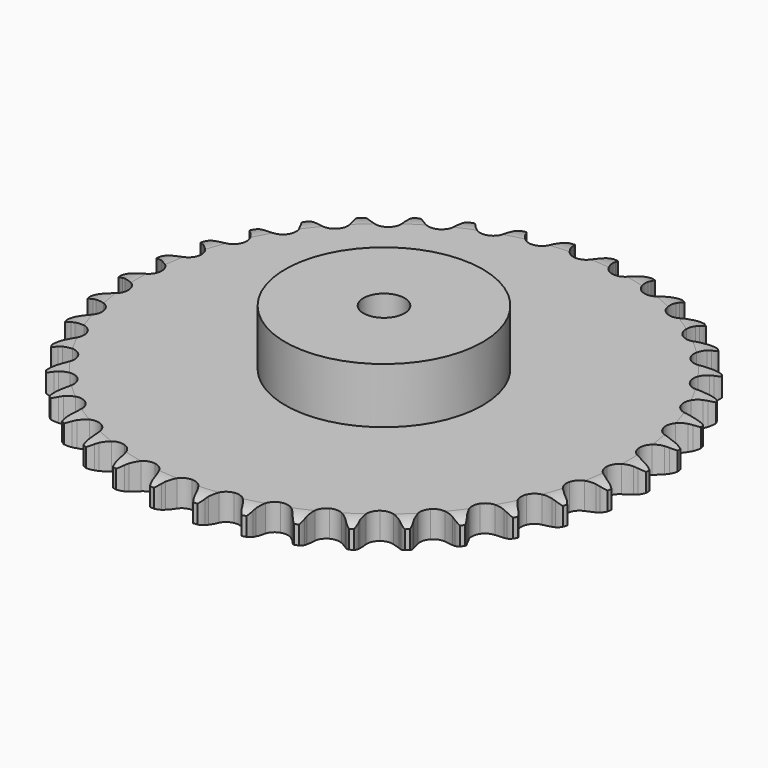
from build123d import *

# Parameters (mm, degrees)
PAD_DEPTH         = 16.2
SKETCH001_R       = 60
PAD001_DEPTH      = 50
SKETCH002_R       = 12.5
POCKET_DEPTH      = 0.0010001
POCKET_DEPTH_BACK = 50.001


with BuildPart() as part:
    # Sprocket → Pad (new body)
    with BuildSketch(Plane.XY):
        with BuildLine():
            ThreePointArc((-13.3743800362, 161.4047637629), (-11.4083954717, 159.0894894173), (-10.0382676821, 156.3787071604))
            Line((-10.0382676821, 156.3787071604), (-9.2638283543, 154.2570187456))
            ThreePointArc((-9.2638283543, 154.2570187456), (-8.040592009, 151.5331871163), (-6.4385860217, 149.0134365895))
            ThreePointArc((-6.4385860217, 149.0134365895), (-3.6038657612, 146.629271795), (0, 145.7736829351))
            ThreePointArc((0, 145.7736829351), (3.6038657612, 146.629271795), (6.4385860217, 149.0134365895))
            ThreePointArc((6.4385860217, 149.0134365895), (8.040592009, 151.5331871163), (9.2638283543, 154.2570187456))
            Line((9.2638283543, 154.2570187456), (10.0382676821, 156.3787071604))
            ThreePointArc((10.0382676821, 156.3787071604), (11.4083954717, 159.0894894173), (13.3743800362, 161.4047637629))
            ThreePointArc((13.3743800362, 161.4047637629), (14.9324695014, 158.7974763177), (15.8377304389, 155.8981499754))
            Line((15.8377304389, 155.8981499754), (16.2523889883, 153.6779301013))
            ThreePointArc((16.2523889883, 153.6779301013), (17.0106140332, 150.7899099002), (18.1760334413, 148.0408439672))
            ThreePointArc((18.1760334413, 148.0408439672), (20.5796711847, 145.2226164531), (23.9935596164, 143.7855199017))
            ThreePointArc((23.9935596164, 143.7855199017), (27.6890986438, 144.0362628363), (30.8775776422, 145.9213311107))
            Line((30.8775776422, 145.9213311107), (34.5273526084, 150.6283780365))
            ThreePointArc((34.5273526084, 150.6283780365), (35.0571042163, 151.626196206), (35.6404480285, 152.5936608629))
            ThreePointArc((35.6404480285, 152.5936608629), (37.4380691558, 155.0419559609), (39.7583218856, 157.0020625583))
            ThreePointArc((39.7583218856, 157.0020625583), (40.8660156326, 154.1738820183), (41.2817165593, 151.1650976553))
            Line((41.2817165593, 151.1650976553), (41.3252835261, 148.9069081323))
            ThreePointArc((41.3252835261, 148.9069081323), (41.597814868, 145.9334770219), (42.2948580935, 143.0300830351))
            ThreePointArc((42.2948580935, 143.0300830351), (44.201848348, 139.8546667015), (47.332637473, 137.8752627062))
            ThreePointArc((47.332637473, 137.8752627062), (51.0190450955, 137.514320102), (54.4743094365, 138.8488721077))
            Line((54.4743094365, 138.8488721077), (58.8490606894, 142.8909878334))
            ThreePointArc((58.8490606894, 142.8909878334), (59.5358226487, 143.7880028148), (60.2704498605, 144.6462572791))
            ThreePointArc((60.2704498605, 144.6462572791), (62.4465299071, 146.7652821101), (65.0577603562, 148.3167543609))
            ThreePointArc((65.0577603562, 148.3167543609), (65.684843387, 145.3448261188), (65.5996450655, 142.3086555291))
            Line((65.5996450655, 142.3086555291), (65.2709320563, 140.0740938809))
            ThreePointArc((65.2709320563, 140.0740938809), (65.0503357505, 137.0963593106), (65.2599892713, 134.1178342894))
            ThreePointArc((65.2599892713, 134.1178342894), (66.6183143139, 130.6718462162), (69.3806043664, 128.2041277581))
            ThreePointArc((69.3806043664, 128.2041277581), (72.9573249937, 127.2413451883), (76.5851240733, 127.9889778256))
            Line((76.5851240733, 127.9889778256), (81.5655198029, 131.2559039713))
            ThreePointArc((81.5655198029, 131.2559039713), (82.3905590375, 132.0276475342), (83.2564309335, 132.7532808613))
            ThreePointArc((83.2564309335, 132.7532808613), (85.7516121085, 134.4852339518), (88.5825927172, 135.5857517375))
            ThreePointArc((88.5825927172, 135.5857517375), (88.7119598415, 132.5511422484), (88.1281862598, 129.5704042511))
            Line((88.1281862598, 129.5704042511), (87.4361597086, 127.4204234942))
            ThreePointArc((87.4361597086, 127.4204234942), (86.7284530474, 124.5196103009), (86.4449980619, 121.5472006434))
            ThreePointArc((86.4449980619, 121.5472006434), (87.2176063263, 117.9246384021), (89.5360492343, 115.035918408))
            ThreePointArc((89.5360492343, 115.035918408), (92.9055192516, 113.4975580714), (96.6068961678, 113.6378778708))
            Line((96.6068961678, 113.6378778708), (102.0570841616, 116.0405012074))
            ThreePointArc((102.0570841616, 116.0405012074), (102.997895752, 116.6659221993), (103.971393604, 117.2391410036))
            ThreePointArc((103.971393604, 117.2391410036), (106.7176138693, 118.5367791883), (109.6911228665, 119.1563232523))
            ThreePointArc((109.6911228665, 119.1563232523), (109.3192452863, 116.1418087526), (108.2528202659, 113.2978101099))
            Line((108.2528202659, 113.2978101099), (107.2163568532, 111.2910561149))
            ThreePointArc((107.2163568532, 111.2910561149), (106.0408442293, 108.5462909206), (105.2720126506, 105.6610762138))
            ThreePointArc((105.2720126506, 105.6610762138), (105.4378293975, 101.9607538591), (107.2491840822, 98.72982908))
            ThreePointArc((107.2491840822, 98.72982908), (110.3194931309, 96.6578534363), (113.9934839703, 96.1870328396))
            Line((113.9934839703, 96.1870328396), (119.7647973073, 97.6598160656))
            ThreePointArc((119.7647973073, 97.6598160656), (120.7957183658, 98.1218546321), (121.8502876902, 98.5270229989))
            ThreePointArc((121.8502876902, 98.5270229989), (124.7726373158, 99.3549500907), (127.8075651274, 99.4766208862))
            ThreePointArc((127.8075651274, 99.4766208862), (126.9445866937, 96.564429473), (125.4245995293, 93.9347470543))
            Line((125.4245995293, 93.9347470543), (124.0719712749, 92.1259588389))
            ThreePointArc((124.0719712749, 92.1259588389), (122.4607176085, 89.612111683), (121.2274811579, 86.8927930629))
            ThreePointArc((121.2274811579, 86.8927930629), (120.7819833386, 83.2156457426), (122.0368407661, 79.7306473841))
            ThreePointArc((122.0368407661, 79.7306473841), (124.7242388191, 77.1815745277), (128.2706266889, 76.1124562933))
            Line((128.2706266889, 76.1124562933), (134.205638986, 76.6152257217))
            ThreePointArc((134.205638986, 76.6152257217), (135.2985486735, 76.9012786551), (136.4054235682, 77.1273446477))
            ThreePointArc((136.4054235682, 77.1273446477), (139.4241884744, 77.4629769538), (142.437750181, 77.0834556185))
            ThreePointArc((142.437750181, 77.0834556185), (141.1072106959, 74.3530242822), (139.175122675, 72.0093889686))
            Line((139.175122675, 72.0093889686), (137.5432257518, 70.4479055603))
            ThreePointArc((137.5432257518, 70.4479055603), (135.5401818427, 68.2335476401), (133.8761799957, 65.7543010299))
            ThreePointArc((133.8761799957, 65.7543010299), (132.8315196294, 62.2006317373), (133.4956505602, 58.5566214698))
            ThreePointArc((133.4956505602, 58.5566214698), (135.7268324041, 55.5999834633), (139.048881088, 53.9617303497))
            Line((139.048881088, 53.9617303497), (144.9857006812, 53.4807717411))
            ThreePointArc((144.9857006812, 53.4807717411), (146.1107872704, 53.5830362631), (147.2397750737, 53.6238333904))
            ThreePointArc((147.2397750737, 53.6238333904), (150.2726112231, 53.4580157364), (153.1826047173, 52.5876546231))
            ThreePointArc((153.1826047173, 52.5876546231), (151.4207978294, 50.1134624128), (149.1293112766, 48.1198024663))
            Line((149.1293112766, 48.1198024663), (147.2626595786, 46.8482170619))
            ThreePointArc((147.2626595786, 46.8482170619), (144.922463243, 44.9937502891), (142.8730856323, 42.8222030734))
            ThreePointArc((142.8730856323, 42.8222030734), (141.2577583306, 39.4889466431), (141.3130470042, 35.7853235676))
            ThreePointArc((141.3130470042, 35.7853235676), (143.0271518146, 32.5017697883), (146.0342444844, 30.33906907))
            Line((146.0342444844, 30.33906907), (151.8109304113, 28.8875017214))
            ThreePointArc((151.8109304113, 28.8875017214), (152.9375044729, 28.8031883224), (154.0578093405, 28.6576037451))
            ThreePointArc((154.0578093405, 28.6576037451), (157.0219888691, 27.9948592044), (159.749037114, 26.6573994953))
            ThreePointArc((159.749037114, 26.6573994953), (157.6040203226, 24.5069359248), (155.0156410176, 22.9176331918))
            Line((155.0156410176, 22.9176331918), (152.9651519372, 21.9706313263))
            ThreePointArc((152.9651519372, 21.9706313263), (150.3516376307, 20.5266407202), (147.9727859353, 18.7220270463))
            ThreePointArc((147.9727859353, 18.7220270463), (145.8308536161, 15.7001060245), (145.2757919016, 12.0378953239))
            ThreePointArc((145.2757919016, 12.0378953239), (146.4260633675, 8.5169925594), (149.0361743742, 5.888837074))
            Line((149.0361743742, 5.888837074), (154.4951537013, 3.5062559587))
            ThreePointArc((154.4951537013, 3.5062559587), (155.5924852318, 3.2376644886), (156.6735481674, 2.9096693745))
            ThreePointArc((156.6735481674, 2.9096693745), (159.4882159845, 1.7680758905), (161.957932213, 0))
            ThreePointArc((161.957932213, 0), (159.4882159845, -1.7680758905), (156.6735481674, -2.9096693745))
            Line((156.6735481674, -2.9096693745), (154.4951537013, -3.5062559587))
            ThreePointArc((154.4951537013, -3.5062559587), (151.6796112813, -4.5003820986), (149.0361743742, -5.888837074))
            ThreePointArc((149.0361743742, -5.888837074), (146.4260633675, -8.5169925594), (145.2757919016, -12.0378953239))
            ThreePointArc((145.2757919016, -12.0378953239), (145.8308536161, -15.7001060245), (147.9727859353, -18.7220270463))
            Line((147.9727859353, -18.7220270463), (152.9651519372, -21.9706313263))
            ThreePointArc((152.9651519372, -21.9706313263), (154.0033085928, -22.4161743926), (155.0156410176, -22.9176331918))
            ThreePointArc((155.0156410176, -22.9176331918), (157.6040203226, -24.5069359248), (159.749037114, -26.6573994953))
            ThreePointArc((159.749037114, -26.6573994953), (157.0219888691, -27.9948592044), (154.0578093405, -28.6576037451))
            Line((154.0578093405, -28.6576037451), (151.8109304113, -28.8875017214))
            ThreePointArc((151.8109304113, -28.8875017214), (148.8701605354, -29.4046462254), (146.0342444844, -30.33906907))
            ThreePointArc((146.0342444844, -30.33906907), (143.0271518146, -32.5017697883), (141.3130470042, -35.7853235676))
            ThreePointArc((141.3130470042, -35.7853235676), (141.2577583306, -39.4889466431), (142.8730856323, -42.8222030734))
            Line((142.8730856323, -42.8222030734), (147.2626595786, -46.8482170619))
            ThreePointArc((147.2626595786, -46.8482170619), (148.2133231522, -47.4585584709), (149.1293112766, -48.1198024663))
            ThreePointArc((149.1293112766, -48.1198024663), (151.4207978294, -50.1134624128), (153.1826047173, -52.5876546231))
            ThreePointArc((153.1826047173, -52.5876546231), (150.2726112231, -53.4580157364), (147.2397750737, -53.6238333904))
            Line((147.2397750737, -53.6238333904), (144.9857006812, -53.4807717411))
            ThreePointArc((144.9857006812, -53.4807717411), (141.9999198857, -53.5068282554), (139.048881088, -53.9617303497))
            ThreePointArc((139.048881088, -53.9617303497), (135.7268324041, -55.5999834633), (133.4956505602, -58.5566214698))
            ThreePointArc((133.4956505602, -58.5566214698), (132.8315196294, -62.2006317373), (133.8761799957, -65.7543010299))
            Line((133.8761799957, -65.7543010299), (137.5432257518, -70.4479055603))
            ThreePointArc((137.5432257518, -70.4479055603), (138.3804646192, -71.2063967893), (139.175122675, -72.0093889686))
            ThreePointArc((139.175122675, -72.0093889686), (141.1072106959, -74.3530242822), (142.437750181, -77.0834556185))
            ThreePointArc((142.437750181, -77.0834556185), (139.4241884744, -77.4629769538), (136.4054235682, -77.1273446477))
            Line((136.4054235682, -77.1273446477), (134.205638986, -76.6152257217))
            ThreePointArc((134.205638986, -76.6152257217), (131.2562915876, -76.1494834924), (128.2706266889, -76.1124562933))
            ThreePointArc((128.2706266889, -76.1124562933), (124.7242388191, -77.1815745277), (122.0368407661, -79.7306473841))
            ThreePointArc((122.0368407661, -79.7306473841), (120.7819833386, -83.2156457426), (121.2274811579, -86.8927930629))
            Line((121.2274811579, -86.8927930629), (124.0719712749, -92.1259588389))
            ThreePointArc((124.0719712749, -92.1259588389), (124.7729477423, -93.0119102246), (125.4245995293, -93.9347470543))
            ThreePointArc((125.4245995293, -93.9347470543), (126.9445866937, -96.564429473), (127.8075651274, -99.4766208862))
            ThreePointArc((127.8075651274, -99.4766208862), (124.7726373158, -99.3549500907), (121.8502876902, -98.5270229989))
            Line((121.8502876902, -98.5270229989), (119.7647973073, -97.6598160656))
            ThreePointArc((119.7647973073, -97.6598160656), (116.9323338146, -96.7149793266), (113.9934839703, -96.1870328396))
            ThreePointArc((113.9934839703, -96.1870328396), (110.3194931309, -96.6578534363), (107.2491840822, -98.72982908))
            ThreePointArc((107.2491840822, -98.72982908), (105.4378293975, -101.9607538591), (105.2720126506, -105.6610762138))
            Line((105.2720126506, -105.6610762138), (107.2163568532, -111.2910561149))
            ThreePointArc((107.2163568532, -111.2910561149), (107.7619501099, -112.2803012129), (108.2528202659, -113.2978101099))
            ThreePointArc((108.2528202659, -113.2978101099), (109.3192452863, -116.1418087526), (109.6911228665, -119.1563232523))
            ThreePointArc((109.6911228665, -119.1563232523), (106.7176138693, -118.5367791883), (103.971393604, -117.2391410036))
            Line((103.971393604, -117.2391410036), (102.0570841616, -116.0405012074))
            ThreePointArc((102.0570841616, -116.0405012074), (99.4187667951, -114.642342642), (96.6068961678, -113.6378778708))
            ThreePointArc((96.6068961678, -113.6378778708), (92.9055192516, -113.4975580714), (89.5360492343, -115.035918408))
            ThreePointArc((89.5360492343, -115.035918408), (87.2176063263, -117.9246384021), (86.4449980619, -121.5472006434))
            Line((86.4449980619, -121.5472006434), (87.4361597086, -127.4204234942))
            ThreePointArc((87.4361597086, -127.4204234942), (87.8114873929, -128.485978277), (88.1281862598, -129.5704042511))
            ThreePointArc((88.1281862598, -129.5704042511), (88.7119598415, -132.5511422484), (88.5825927172, -135.5857517375))
            ThreePointArc((88.5825927172, -135.5857517375), (85.7516121085, -134.4852339518), (83.2564309335, -132.7532808613))
            Line((83.2564309335, -132.7532808613), (81.5655198029, -131.2559039713))
            ThreePointArc((81.5655198029, -131.2559039713), (79.1933149827, -129.4425617003), (76.5851240733, -127.9889778256))
            ThreePointArc((76.5851240733, -127.9889778256), (72.9573249937, -127.2413451883), (69.3806043664, -128.2041277581))
            ThreePointArc((69.3806043664, -128.2041277581), (66.6183143139, -130.6718462162), (65.2599892713, -134.1178342894))
            Line((65.2599892713, -134.1178342894), (65.2709320563, -140.0740938809))
            ThreePointArc((65.2709320563, -140.0740938809), (65.4657562073, -141.1868927916), (65.5996450655, -142.3086555291))
            ThreePointArc((65.5996450655, -142.3086555291), (65.684843387, -145.3448261188), (65.0577603562, -148.3167543609))
            ThreePointArc((65.0577603562, -148.3167543609), (62.4465299071, -146.7652821101), (60.2704498605, -144.6462572791))
            Line((60.2704498605, -144.6462572791), (58.8490606894, -142.8909878334))
            ThreePointArc((58.8490606894, -142.8909878334), (56.8076759792, -140.7119251071), (54.4743094365, -138.8488721077))
            ThreePointArc((54.4743094365, -138.8488721077), (51.0190450955, -137.514320102), (47.332637473, -137.8752627062))
            ThreePointArc((47.332637473, -137.8752627062), (44.201848348, -139.8546667015), (42.2948580935, -143.0300830351))
            Line((42.2948580935, -143.0300830351), (41.3252835261, -148.9069081323))
            ThreePointArc((41.3252835261, -148.9069081323), (41.3342898488, -150.0365969177), (41.2817165593, -151.1650976553))
            ThreePointArc((41.2817165593, -151.1650976553), (40.8660156326, -154.1738820183), (39.7583218856, -157.0020625583))
            ThreePointArc((39.7583218856, -157.0020625583), (37.4380691558, -155.0419559609), (35.6404480285, -152.5936608629))
            Line((35.6404480285, -152.5936608629), (34.5273526084, -150.6283780365))
            ThreePointArc((34.5273526084, -150.6283780365), (32.8724716615, -148.1430340055), (30.8775776422, -145.9213311107))
            ThreePointArc((30.8775776422, -145.9213311107), (27.6890986438, -144.0362628363), (23.9935596164, -143.7855199017))
            ThreePointArc((23.9935596164, -143.7855199017), (20.5796711847, -145.2226164531), (18.1760334413, -148.0408439672))
            Line((18.1760334413, -148.0408439672), (16.2523889883, -153.6779301013))
            ThreePointArc((16.2523889883, -153.6779301013), (16.0753318137, -154.793693796), (15.8377304389, -155.8981499754))
            ThreePointArc((15.8377304389, -155.8981499754), (14.9324695014, -158.7974763177), (13.3743800362, -161.4047637629))
            ThreePointArc((13.3743800362, -161.4047637629), (11.4083954717, -159.0894894173), (10.0382676821, -156.3787071604))
            Line((10.0382676821, -156.3787071604), (9.2638283543, -154.2570187456))
            ThreePointArc((9.2638283543, -154.2570187456), (8.040592009, -151.5331871163), (6.4385860217, -149.0134365895))
            ThreePointArc((6.4385860217, -149.0134365895), (3.6038657612, -146.629271795), (0, -145.7736829351))
            ThreePointArc((0, -145.7736829351), (-3.6038657612, -146.629271795), (-6.4385860217, -149.0134365895))
            Line((-6.4385860217, -149.0134365895), (-9.2638283543, -154.2570187456))
            ThreePointArc((-9.2638283543, -154.2570187456), (-9.622119368, -155.3284222247), (-10.0382676821, -156.3787071604))
            ThreePointArc((-10.0382676821, -156.3787071604), (-11.4083954717, -159.0894894173), (-13.3743800362, -161.4047637629))
            ThreePointArc((-13.3743800362, -161.4047637629), (-14.9324695014, -158.7974763177), (-15.8377304389, -155.8981499754))
            Line((-15.8377304389, -155.8981499754), (-16.2523889883, -153.6779301013))
            ThreePointArc((-16.2523889883, -153.6779301013), (-17.0106140332, -150.7899099002), (-18.1760334413, -148.0408439672))
            ThreePointArc((-18.1760334413, -148.0408439672), (-20.5796711847, -145.2226164531), (-23.9935596164, -143.7855199017))
            ThreePointArc((-23.9935596164, -143.7855199017), (-27.6890986438, -144.0362628363), (-30.8775776422, -145.9213311107))
            Line((-30.8775776422, -145.9213311107), (-34.5273526084, -150.6283780365))
            ThreePointArc((-34.5273526084, -150.6283780365), (-35.0571042163, -151.626196206), (-35.6404480285, -152.5936608629))
            ThreePointArc((-35.6404480285, -152.5936608629), (-37.4380691558, -155.0419559609), (-39.7583218856, -157.0020625583))
            ThreePointArc((-39.7583218856, -157.0020625583), (-40.8660156326, -154.1738820183), (-41.2817165593, -151.1650976553))
            Line((-41.2817165593, -151.1650976553), (-41.3252835261, -148.9069081323))
            ThreePointArc((-41.3252835261, -148.9069081323), (-41.597814868, -145.9334770219), (-42.2948580935, -143.0300830351))
            ThreePointArc((-42.2948580935, -143.0300830351), (-44.201848348, -139.8546667015), (-47.332637473, -137.8752627062))
            ThreePointArc((-47.332637473, -137.8752627062), (-51.0190450955, -137.514320102), (-54.4743094365, -138.8488721077))
            Line((-54.4743094365, -138.8488721077), (-58.8490606894, -142.8909878334))
            ThreePointArc((-58.8490606894, -142.8909878334), (-59.5358226487, -143.7880028148), (-60.2704498605, -144.6462572791))
            ThreePointArc((-60.2704498605, -144.6462572791), (-62.4465299071, -146.7652821101), (-65.0577603562, -148.3167543609))
            ThreePointArc((-65.0577603562, -148.3167543609), (-65.684843387, -145.3448261188), (-65.5996450655, -142.3086555291))
            Line((-65.5996450655, -142.3086555291), (-65.2709320563, -140.0740938809))
            ThreePointArc((-65.2709320563, -140.0740938809), (-65.0503357505, -137.0963593106), (-65.2599892713, -134.1178342894))
            ThreePointArc((-65.2599892713, -134.1178342894), (-66.6183143139, -130.6718462162), (-69.3806043664, -128.2041277581))
            ThreePointArc((-69.3806043664, -128.2041277581), (-72.9573249937, -127.2413451883), (-76.5851240733, -127.9889778256))
            Line((-76.5851240733, -127.9889778256), (-81.5655198029, -131.2559039713))
            ThreePointArc((-81.5655198029, -131.2559039713), (-82.3905590375, -132.0276475342), (-83.2564309335, -132.7532808613))
            ThreePointArc((-83.2564309335, -132.7532808613), (-85.7516121085, -134.4852339518), (-88.5825927172, -135.5857517375))
            ThreePointArc((-88.5825927172, -135.5857517375), (-88.7119598415, -132.5511422484), (-88.1281862598, -129.5704042511))
            Line((-88.1281862598, -129.5704042511), (-87.4361597086, -127.4204234942))
            ThreePointArc((-87.4361597086, -127.4204234942), (-86.7284530474, -124.5196103009), (-86.4449980619, -121.5472006434))
            ThreePointArc((-86.4449980619, -121.5472006434), (-87.2176063263, -117.9246384021), (-89.5360492343, -115.035918408))
            ThreePointArc((-89.5360492343, -115.035918408), (-92.9055192516, -113.4975580714), (-96.6068961678, -113.6378778708))
            Line((-96.6068961678, -113.6378778708), (-102.0570841616, -116.0405012074))
            ThreePointArc((-102.0570841616, -116.0405012074), (-102.997895752, -116.6659221993), (-103.971393604, -117.2391410036))
            ThreePointArc((-103.971393604, -117.2391410036), (-106.7176138693, -118.5367791883), (-109.6911228665, -119.1563232523))
            ThreePointArc((-109.6911228665, -119.1563232523), (-109.3192452863, -116.1418087526), (-108.2528202659, -113.2978101099))
            Line((-108.2528202659, -113.2978101099), (-107.2163568532, -111.2910561149))
            ThreePointArc((-107.2163568532, -111.2910561149), (-106.0408442293, -108.5462909206), (-105.2720126506, -105.6610762138))
            ThreePointArc((-105.2720126506, -105.6610762138), (-105.4378293975, -101.9607538591), (-107.2491840822, -98.72982908))
            ThreePointArc((-107.2491840822, -98.72982908), (-110.3194931309, -96.6578534363), (-113.9934839703, -96.1870328396))
            Line((-113.9934839703, -96.1870328396), (-119.7647973073, -97.6598160656))
            ThreePointArc((-119.7647973073, -97.6598160656), (-120.7957183658, -98.1218546321), (-121.8502876902, -98.5270229989))
            ThreePointArc((-121.8502876902, -98.5270229989), (-124.7726373158, -99.3549500907), (-127.8075651274, -99.4766208862))
            ThreePointArc((-127.8075651274, -99.4766208862), (-126.9445866937, -96.564429473), (-125.4245995293, -93.9347470543))
            Line((-125.4245995293, -93.9347470543), (-124.0719712749, -92.1259588389))
            ThreePointArc((-124.0719712749, -92.1259588389), (-122.4607176085, -89.612111683), (-121.2274811579, -86.8927930629))
            ThreePointArc((-121.2274811579, -86.8927930629), (-120.7819833386, -83.2156457426), (-122.0368407661, -79.7306473841))
            ThreePointArc((-122.0368407661, -79.7306473841), (-124.7242388191, -77.1815745277), (-128.2706266889, -76.1124562933))
            Line((-128.2706266889, -76.1124562933), (-134.205638986, -76.6152257217))
            ThreePointArc((-134.205638986, -76.6152257217), (-135.2985486735, -76.9012786551), (-136.4054235682, -77.1273446477))
            ThreePointArc((-136.4054235682, -77.1273446477), (-139.4241884744, -77.4629769538), (-142.437750181, -77.0834556185))
            ThreePointArc((-142.437750181, -77.0834556185), (-141.1072106959, -74.3530242822), (-139.175122675, -72.0093889686))
            Line((-139.175122675, -72.0093889686), (-137.5432257518, -70.4479055603))
            ThreePointArc((-137.5432257518, -70.4479055603), (-135.5401818427, -68.2335476401), (-133.8761799957, -65.7543010299))
            ThreePointArc((-133.8761799957, -65.7543010299), (-132.8315196294, -62.2006317373), (-133.4956505602, -58.5566214698))
            ThreePointArc((-133.4956505602, -58.5566214698), (-135.7268324041, -55.5999834633), (-139.048881088, -53.9617303497))
            Line((-139.048881088, -53.9617303497), (-144.9857006812, -53.4807717411))
            ThreePointArc((-144.9857006812, -53.4807717411), (-146.1107872704, -53.5830362631), (-147.2397750737, -53.6238333904))
            ThreePointArc((-147.2397750737, -53.6238333904), (-150.2726112231, -53.4580157364), (-153.1826047173, -52.5876546231))
            ThreePointArc((-153.1826047173, -52.5876546231), (-151.4207978294, -50.1134624128), (-149.1293112766, -48.1198024663))
            Line((-149.1293112766, -48.1198024663), (-147.2626595786, -46.8482170619))
            ThreePointArc((-147.2626595786, -46.8482170619), (-144.922463243, -44.9937502891), (-142.8730856323, -42.8222030734))
            ThreePointArc((-142.8730856323, -42.8222030734), (-141.2577583306, -39.4889466431), (-141.3130470042, -35.7853235676))
            ThreePointArc((-141.3130470042, -35.7853235676), (-143.0271518146, -32.5017697883), (-146.0342444844, -30.33906907))
            Line((-146.0342444844, -30.33906907), (-151.8109304113, -28.8875017214))
            ThreePointArc((-151.8109304113, -28.8875017214), (-152.9375044729, -28.8031883224), (-154.0578093405, -28.6576037451))
            ThreePointArc((-154.0578093405, -28.6576037451), (-157.0219888691, -27.9948592044), (-159.749037114, -26.6573994953))
            ThreePointArc((-159.749037114, -26.6573994953), (-157.6040203226, -24.5069359248), (-155.0156410176, -22.9176331918))
            Line((-155.0156410176, -22.9176331918), (-152.9651519372, -21.9706313263))
            ThreePointArc((-152.9651519372, -21.9706313263), (-150.3516376307, -20.5266407202), (-147.9727859353, -18.7220270463))
            ThreePointArc((-147.9727859353, -18.7220270463), (-145.8308536161, -15.7001060245), (-145.2757919016, -12.0378953239))
            ThreePointArc((-145.2757919016, -12.0378953239), (-146.4260633675, -8.5169925594), (-149.0361743742, -5.888837074))
            Line((-149.0361743742, -5.888837074), (-154.4951537013, -3.5062559587))
            ThreePointArc((-154.4951537013, -3.5062559587), (-155.5924852318, -3.2376644886), (-156.6735481674, -2.9096693745))
            ThreePointArc((-156.6735481674, -2.9096693745), (-159.4882159845, -1.7680758905), (-161.957932213, 0))
            ThreePointArc((-161.957932213, 0), (-159.4882159845, 1.7680758905), (-156.6735481674, 2.9096693745))
            Line((-156.6735481674, 2.9096693745), (-154.4951537013, 3.5062559587))
            ThreePointArc((-154.4951537013, 3.5062559587), (-151.6796112813, 4.5003820986), (-149.0361743742, 5.888837074))
            ThreePointArc((-149.0361743742, 5.888837074), (-146.4260633675, 8.5169925594), (-145.2757919016, 12.0378953239))
            ThreePointArc((-145.2757919016, 12.0378953239), (-145.8308536161, 15.7001060245), (-147.9727859353, 18.7220270463))
            Line((-147.9727859353, 18.7220270463), (-152.9651519372, 21.9706313263))
            ThreePointArc((-152.9651519372, 21.9706313263), (-154.0033085928, 22.4161743926), (-155.0156410176, 22.9176331918))
            ThreePointArc((-155.0156410176, 22.9176331918), (-157.6040203226, 24.5069359248), (-159.749037114, 26.6573994953))
            ThreePointArc((-159.749037114, 26.6573994953), (-157.0219888691, 27.9948592044), (-154.0578093405, 28.6576037451))
            Line((-154.0578093405, 28.6576037451), (-151.8109304113, 28.8875017214))
            ThreePointArc((-151.8109304113, 28.8875017214), (-148.8701605354, 29.4046462254), (-146.0342444844, 30.33906907))
            ThreePointArc((-146.0342444844, 30.33906907), (-143.0271518146, 32.5017697883), (-141.3130470042, 35.7853235676))
            ThreePointArc((-141.3130470042, 35.7853235676), (-141.2577583306, 39.4889466431), (-142.8730856323, 42.8222030734))
            Line((-142.8730856323, 42.8222030734), (-147.2626595786, 46.8482170619))
            ThreePointArc((-147.2626595786, 46.8482170619), (-148.2133231522, 47.4585584709), (-149.1293112766, 48.1198024663))
            ThreePointArc((-149.1293112766, 48.1198024663), (-151.4207978294, 50.1134624128), (-153.1826047173, 52.5876546231))
            ThreePointArc((-153.1826047173, 52.5876546231), (-150.2726112231, 53.4580157364), (-147.2397750737, 53.6238333904))
            Line((-147.2397750737, 53.6238333904), (-144.9857006812, 53.4807717411))
            ThreePointArc((-144.9857006812, 53.4807717411), (-141.9999198857, 53.5068282554), (-139.048881088, 53.9617303497))
            ThreePointArc((-139.048881088, 53.9617303497), (-135.7268324041, 55.5999834633), (-133.4956505602, 58.5566214698))
            ThreePointArc((-133.4956505602, 58.5566214698), (-132.8315196294, 62.2006317373), (-133.8761799957, 65.7543010299))
            Line((-133.8761799957, 65.7543010299), (-137.5432257518, 70.4479055603))
            ThreePointArc((-137.5432257518, 70.4479055603), (-138.3804646192, 71.2063967893), (-139.175122675, 72.0093889686))
            ThreePointArc((-139.175122675, 72.0093889686), (-141.1072106959, 74.3530242822), (-142.437750181, 77.0834556185))
            ThreePointArc((-142.437750181, 77.0834556185), (-139.4241884744, 77.4629769538), (-136.4054235682, 77.1273446477))
            Line((-136.4054235682, 77.1273446477), (-134.205638986, 76.6152257217))
            ThreePointArc((-134.205638986, 76.6152257217), (-131.2562915876, 76.1494834924), (-128.2706266889, 76.1124562933))
            ThreePointArc((-128.2706266889, 76.1124562933), (-124.7242388191, 77.1815745277), (-122.0368407661, 79.7306473841))
            ThreePointArc((-122.0368407661, 79.7306473841), (-120.7819833386, 83.2156457426), (-121.2274811579, 86.8927930629))
            Line((-121.2274811579, 86.8927930629), (-124.0719712749, 92.1259588389))
            ThreePointArc((-124.0719712749, 92.1259588389), (-124.7729477423, 93.0119102246), (-125.4245995293, 93.9347470543))
            ThreePointArc((-125.4245995293, 93.9347470543), (-126.9445866937, 96.564429473), (-127.8075651274, 99.4766208862))
            ThreePointArc((-127.8075651274, 99.4766208862), (-124.7726373158, 99.3549500907), (-121.8502876902, 98.5270229989))
            Line((-121.8502876902, 98.5270229989), (-119.7647973073, 97.6598160656))
            ThreePointArc((-119.7647973073, 97.6598160656), (-116.9323338146, 96.7149793266), (-113.9934839703, 96.1870328396))
            ThreePointArc((-113.9934839703, 96.1870328396), (-110.3194931309, 96.6578534363), (-107.2491840822, 98.72982908))
            ThreePointArc((-107.2491840822, 98.72982908), (-105.4378293975, 101.9607538591), (-105.2720126506, 105.6610762138))
            Line((-105.2720126506, 105.6610762138), (-107.2163568532, 111.2910561149))
            ThreePointArc((-107.2163568532, 111.2910561149), (-107.7619501099, 112.2803012129), (-108.2528202659, 113.2978101099))
            ThreePointArc((-108.2528202659, 113.2978101099), (-109.3192452863, 116.1418087526), (-109.6911228665, 119.1563232523))
            ThreePointArc((-109.6911228665, 119.1563232523), (-106.7176138693, 118.5367791883), (-103.971393604, 117.2391410036))
            Line((-103.971393604, 117.2391410036), (-102.0570841616, 116.0405012074))
            ThreePointArc((-102.0570841616, 116.0405012074), (-99.4187667951, 114.642342642), (-96.6068961678, 113.6378778708))
            ThreePointArc((-96.6068961678, 113.6378778708), (-92.9055192516, 113.4975580714), (-89.5360492343, 115.035918408))
            ThreePointArc((-89.5360492343, 115.035918408), (-87.2176063263, 117.9246384021), (-86.4449980619, 121.5472006434))
            Line((-86.4449980619, 121.5472006434), (-87.4361597086, 127.4204234942))
            ThreePointArc((-87.4361597086, 127.4204234942), (-87.8114873929, 128.485978277), (-88.1281862598, 129.5704042511))
            ThreePointArc((-88.1281862598, 129.5704042511), (-88.7119598415, 132.5511422484), (-88.5825927172, 135.5857517375))
            ThreePointArc((-88.5825927172, 135.5857517375), (-85.7516121085, 134.4852339518), (-83.2564309335, 132.7532808613))
            Line((-83.2564309335, 132.7532808613), (-81.5655198029, 131.2559039713))
            ThreePointArc((-81.5655198029, 131.2559039713), (-79.1933149827, 129.4425617003), (-76.5851240733, 127.9889778256))
            ThreePointArc((-76.5851240733, 127.9889778256), (-72.9573249937, 127.2413451883), (-69.3806043664, 128.2041277581))
            ThreePointArc((-69.3806043664, 128.2041277581), (-66.6183143139, 130.6718462162), (-65.2599892713, 134.1178342894))
            Line((-65.2599892713, 134.1178342894), (-65.2709320563, 140.0740938809))
            ThreePointArc((-65.2709320563, 140.0740938809), (-65.4657562073, 141.1868927916), (-65.5996450655, 142.3086555291))
            ThreePointArc((-65.5996450655, 142.3086555291), (-65.684843387, 145.3448261188), (-65.0577603562, 148.3167543609))
            ThreePointArc((-65.0577603562, 148.3167543609), (-62.4465299071, 146.7652821101), (-60.2704498605, 144.6462572791))
            Line((-60.2704498605, 144.6462572791), (-58.8490606894, 142.8909878334))
            ThreePointArc((-58.8490606894, 142.8909878334), (-56.8076759792, 140.7119251071), (-54.4743094365, 138.8488721077))
            ThreePointArc((-54.4743094365, 138.8488721077), (-51.0190450955, 137.514320102), (-47.332637473, 137.8752627062))
            ThreePointArc((-47.332637473, 137.8752627062), (-44.201848348, 139.8546667015), (-42.2948580935, 143.0300830351))
            Line((-42.2948580935, 143.0300830351), (-41.3252835261, 148.9069081323))
            ThreePointArc((-41.3252835261, 148.9069081323), (-41.3342898488, 150.0365969177), (-41.2817165593, 151.1650976553))
            ThreePointArc((-41.2817165593, 151.1650976553), (-40.8660156326, 154.1738820183), (-39.7583218856, 157.0020625583))
            ThreePointArc((-39.7583218856, 157.0020625583), (-37.4380691558, 155.0419559609), (-35.6404480285, 152.5936608629))
            Line((-35.6404480285, 152.5936608629), (-34.5273526084, 150.6283780365))
            ThreePointArc((-34.5273526084, 150.6283780365), (-32.8724716615, 148.1430340055), (-30.8775776422, 145.9213311107))
            ThreePointArc((-30.8775776422, 145.9213311107), (-27.6890986438, 144.0362628363), (-23.9935596164, 143.7855199017))
            ThreePointArc((-23.9935596164, 143.7855199017), (-20.5796711847, 145.2226164531), (-18.1760334413, 148.0408439672))
            Line((-18.1760334413, 148.0408439672), (-16.2523889883, 153.6779301013))
            ThreePointArc((-16.2523889883, 153.6779301013), (-16.0753318137, 154.793693796), (-15.8377304389, 155.8981499754))
            ThreePointArc((-15.8377304389, 155.8981499754), (-14.9324695014, 158.7974763177), (-13.3743800362, 161.4047637629))
        make_face()
    extrude(amount=PAD_DEPTH)

    # Sketch → Groove (revolve, cut)
    with BuildSketch(Plane.XZ):
        with BuildLine():
            Line((149.2257022694, 0), (160.35, 0))
            Line((171.4742977306, 0), (160.35, 0))
            Line((171.4742977306, 16.2), (171.4742977306, 0))
            Line((160.35, 16.2), (171.4742977306, 16.2))
            Line((149.2257022694, 16.2), (160.35, 16.2))
            ThreePointArc((160.35, 13.7), (154.9265793949, 15.5673017879), (149.2257022694, 16.2))
            Line((160.35, 2.5), (160.35, 13.7))
            ThreePointArc((149.2257022694, 0), (154.9265793949, 0.6326982121), (160.35, 2.5))
        make_face()
    revolve(axis=Axis((0, 0, 0), (0, 0, 1)), mode=Mode.SUBTRACT)

    # Sketch001 → Pad001 (join)
    with BuildSketch(Plane.XY):
        Circle(SKETCH001_R)
    extrude(amount=PAD001_DEPTH)

    # Sketch002 → Pocket (cut, two sides)
    with BuildSketch(Plane.XY) as pocket_sk:
        Circle(SKETCH002_R)
    extrude(amount=-POCKET_DEPTH, mode=Mode.SUBTRACT)
    extrude(pocket_sk.sketch, amount=POCKET_DEPTH_BACK, mode=Mode.SUBTRACT)


solid = part.part
